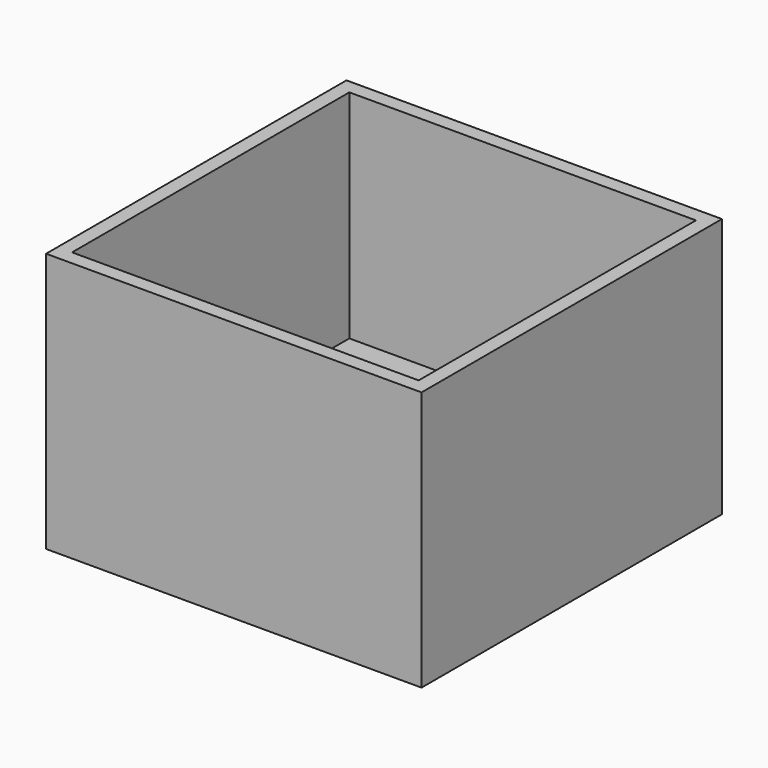
from build123d import *

# Parameters (mm, degrees)
BOX018_W     = 12
BOX018_H     = 12
BOX018_DEPTH = 7.5
BOX017_W     = 13
BOX017_H     = 13
BOX017_DEPTH = 9


with BuildPart() as cubo018:
    # Box018 → Box018 (new body)
    with BuildSketch(Plane(origin=(0.5, 21.5, 1.5), x_dir=(1, 0, 0), z_dir=(0, 0, 1))):
        with Locations((6, 6)):
            Rectangle(BOX018_W, BOX018_H)
    extrude(amount=BOX018_DEPTH)


with BuildPart() as tapa:
    # Box017 → Box017 (new body)
    with BuildSketch(Plane(origin=(0, 21, 0), x_dir=(1, 0, 0), z_dir=(0, 0, 1))):
        with Locations((6.5, 6.5)):
            Rectangle(BOX017_W, BOX017_H)
    extrude(amount=BOX017_DEPTH)

    # Cut029: cut Cubo018
    add(cubo018.part, mode=Mode.SUBTRACT)


solid = tapa.part
